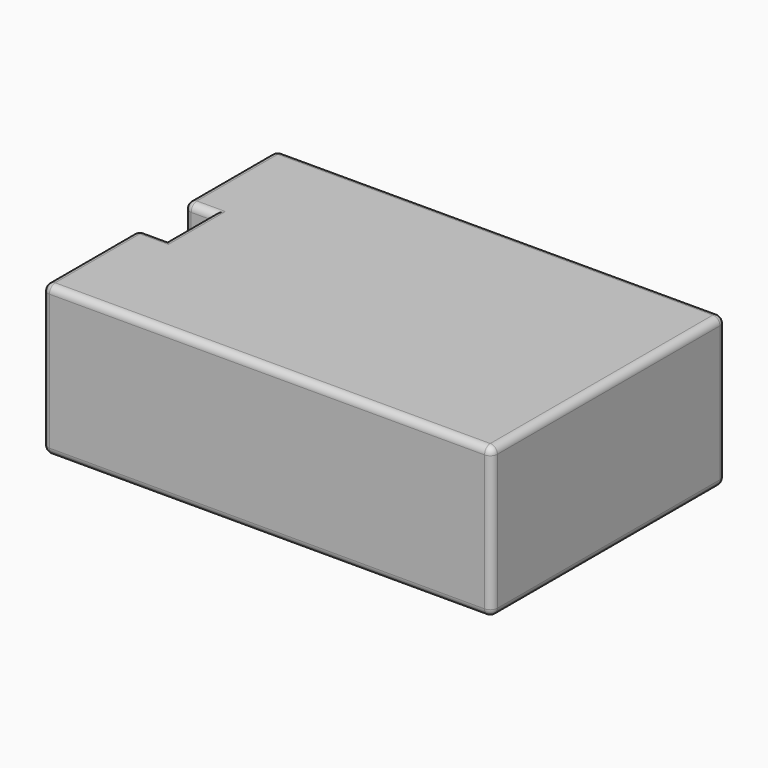
from build123d import *

# Parameters (mm, degrees)
F0_W     = 315
F0_H     = 205
F1_DEPTH = 105
F2_W     = 20
F2_H     = 40
F3_DEPTH = 20
F4_R     = 5


with BuildPart() as f1:
    # F0 (on Top) → F1 (new body)
    with BuildSketch(Plane.XY):
        with Locations((0, -1.702649286)):
            Rectangle(F0_W, F0_H)
    extrude(amount=F1_DEPTH)

    # F2 (on face) → F3 (cut)
    with BuildSketch(Plane.XY.offset(105)):
        with Locations((-147.5, 0)):
            Rectangle(F2_W, F2_H)
    extrude(amount=-F3_DEPTH, mode=Mode.SUBTRACT)

    # F4
    f4_edges = [f1.edges().sort_by_distance(p)[0] for p in [
        (0, -104.202649, 105),
        (157.5, -1.702649, 105),
        (0, 100.797351, 105),
        (-157.5, 60.398675, 105),
        (-157.5, -62.101325, 105),
        (-137.5, 0, 105),
        (-147.5, -20, 105),
        (-147.5, 20, 105),
        (157.5, -104.202649, 52.5),
        (157.5, 100.797351, 52.5),
        (157.5, -1.702649, 0),
        (0, -104.202649, 0),
        (-157.5, -104.202649, 52.5),
        (-157.5, 100.797351, 52.5),
        (0, 100.797351, 0),
        (-157.5, -1.702649, 0),
        (-157.5, 0, 85),
        (-157.5, 20, 95),
        (-157.5, -20, 95),
    ]]
    fillet(f4_edges, radius=F4_R)


solid = f1.part
